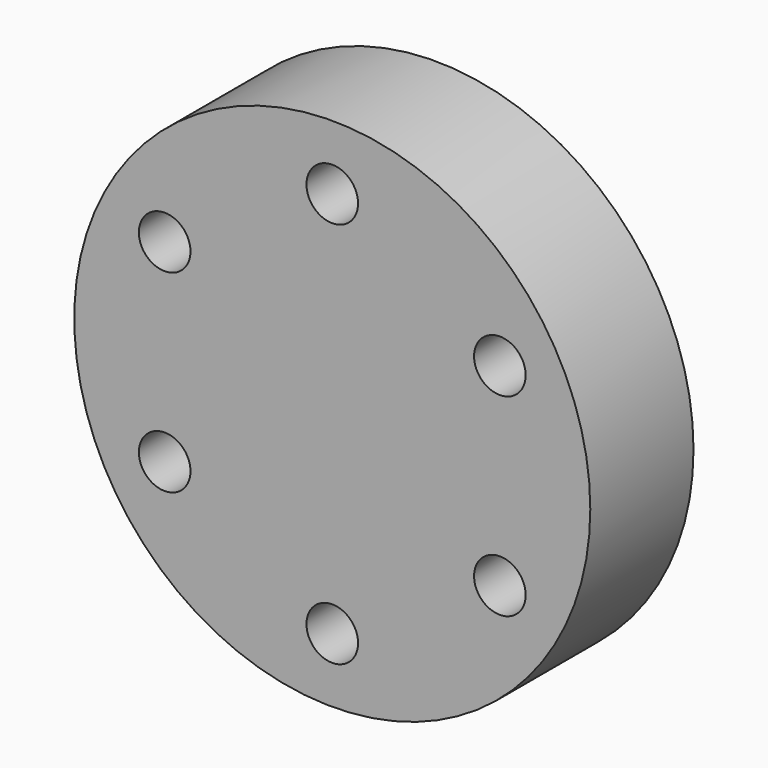
from build123d import *

# Parameters (mm, degrees)
F0_R     = 50
F0_R_2   = 5
F1_DEPTH = 25


with BuildPart() as f1:
    # F0 (on Front) → F1 (new body)
    with BuildSketch(Plane.XZ):
        Circle(F0_R)
        with Locations((-32.475953, -18.75)):
            Circle(F0_R_2, mode=Mode.SUBTRACT)
        with Locations((0, -37.5)):
            Circle(F0_R_2, mode=Mode.SUBTRACT)
        with Locations((32.475953, -18.75)):
            Circle(F0_R_2, mode=Mode.SUBTRACT)
        with Locations((-32.475953, 18.75)):
            Circle(F0_R_2, mode=Mode.SUBTRACT)
        with Locations((32.475953, 18.75)):
            Circle(F0_R_2, mode=Mode.SUBTRACT)
        with Locations((0, 37.5)):
            Circle(F0_R_2, mode=Mode.SUBTRACT)
    extrude(amount=F1_DEPTH)


solid = f1.part
